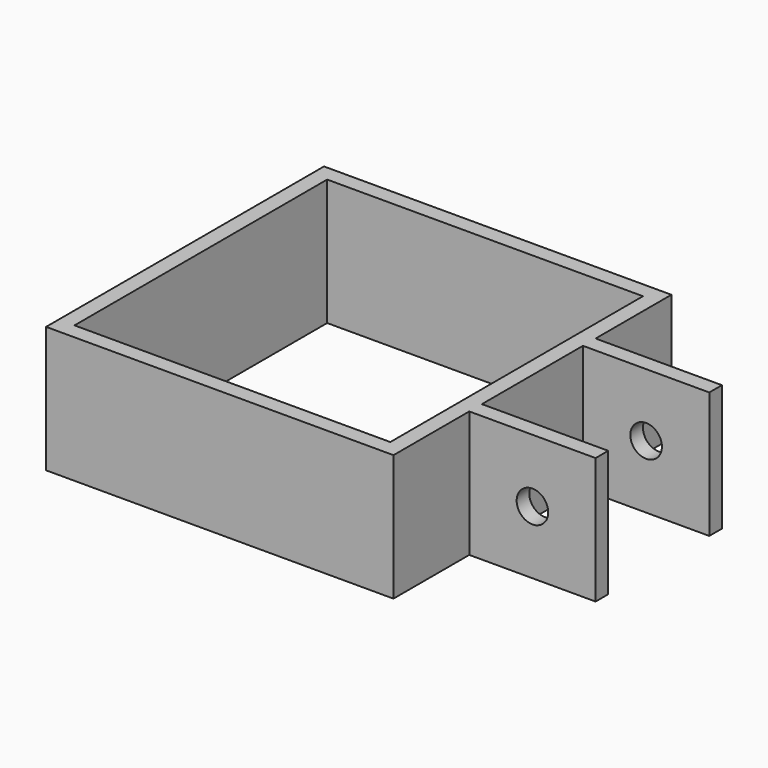
from build123d import *

# Parameters (mm, degrees)
F0_W     = 127
F0_H     = 127
F0_W_2   = 50.8
F0_H_2   = 6.35
F1_DEPTH = 50.8
F2_R     = 6.35
F3_DEPTH = 101.601


with BuildPart() as f1:
    # F0 (on Top) → F1 (new body)
    with BuildSketch(Plane.XY):
        Polygon((-69.85, -69.85), (69.85, -69.85), (69.85, -31.75), (69.85, -25.4), (69.85, 25.4), (69.85, 31.75), (69.85, 69.85), (-69.85, 69.85), align=None)
        Rectangle(F0_W, F0_H, mode=Mode.SUBTRACT)
        with Locations((95.25, -28.575)):
            Rectangle(F0_W_2, F0_H_2)
        with Locations((95.25, 28.575)):
            Rectangle(F0_W_2, F0_H_2)
    extrude(amount=F1_DEPTH)

    # F2 (on face) → F3 (cut, through all)
    with BuildSketch(Plane.XZ.offset(31.75)):
        with Locations((95.25, 25.4)):
            Circle(F2_R)
    extrude(amount=-F3_DEPTH, mode=Mode.SUBTRACT)


solid = f1.part
